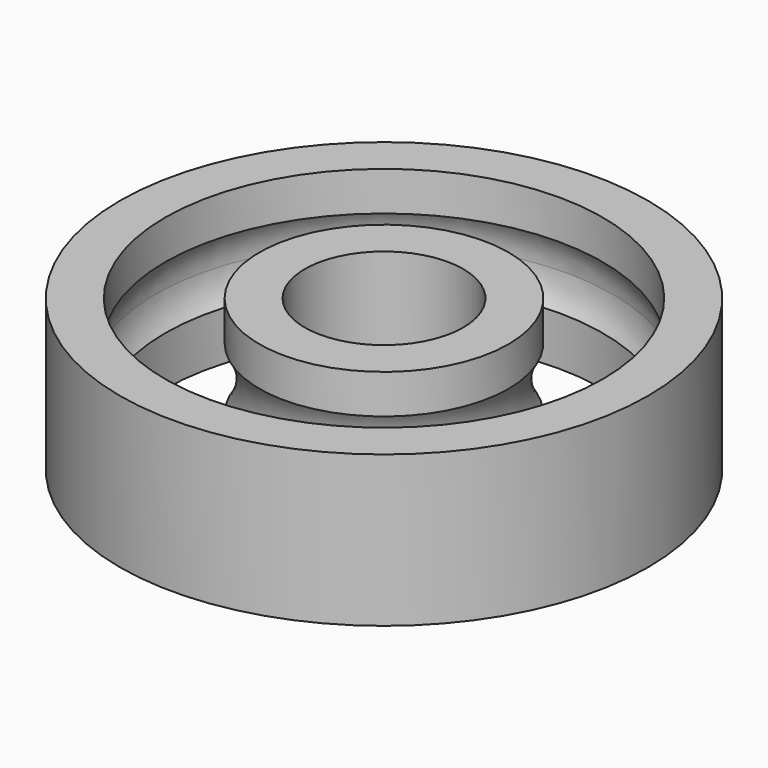
from build123d import *


with BuildPart() as f1:
    # F0 (on Front) → F1 (revolve)
    with BuildSketch(Plane.XZ):
        with BuildLine():
            ThreePointArc((-12.5, -9.302798), (-15, -1.011236), (-12.5, 7.280326))
            Line((-12.5, 7.280326), (-12.5, 17.685391))
            Line((-12.5, 17.685391), (-24.5, 17.685391))
            Line((-24.5, 17.685391), (-24.5, -22.314609))
            Line((-24.5, -22.314609), (-12.5, -22.314609))
            Line((-12.5, -22.314609), (-12.5, -9.302798))
        make_face()
        with BuildLine():
            Line((24.5, 17.685391), (12.5, 17.685391))
            Line((12.5, 17.685391), (12.5, 7.280326))
            ThreePointArc((12.5, 7.280326), (14.361407, 3.318891), (15, -1.011236))
            ThreePointArc((15, -1.011236), (14.361407, -5.341363), (12.5, -9.302798))
            Line((12.5, -9.302798), (12.5, -22.314609))
            Line((12.5, -22.314609), (24.5, -22.314609))
            Line((24.5, -22.314609), (24.5, 17.685391))
        make_face()
    revolve(axis=Axis((-45.5, 0, -3.991936), (0, 0, -1)))


solid = f1.part
